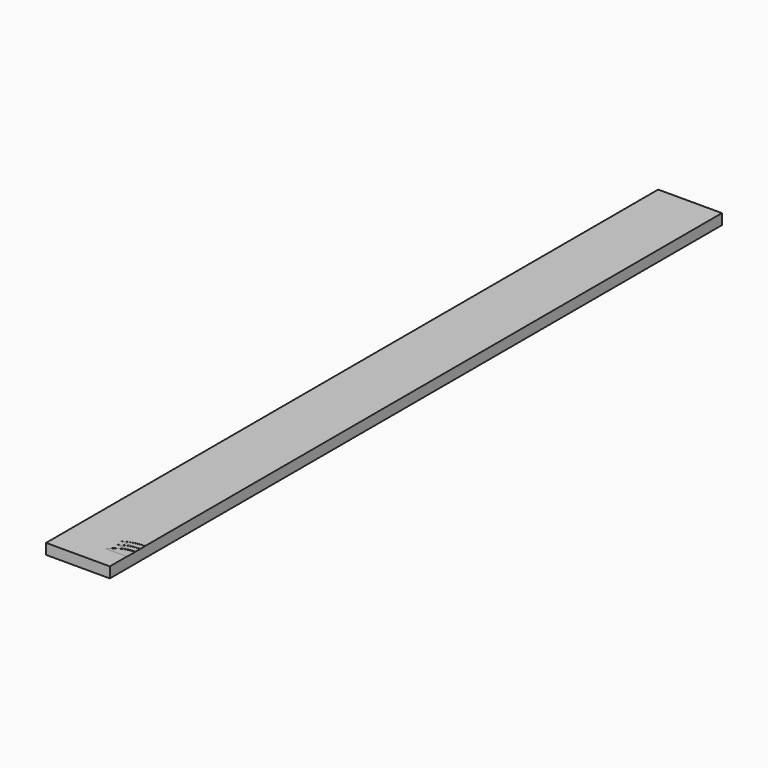
from build123d import *

# Parameters (mm, degrees)
F0_W     = 304.8
F0_H     = 3657.6
F1_DEPTH = 50.8


with BuildPart() as f1:
    # F0 (on Top) → F1 (new body)
    with BuildSketch(Plane.XY):
        Rectangle(F0_W, F0_H)
    extrude(amount=-F1_DEPTH)

    # F5: sweep along a path in F4
    with BuildLine(Plane(origin=(0, -1.688102, -53.966469), x_dir=(1, 0, 0), z_dir=(0, 0.031265, 0.999511))) as f5_path:
        ThreePointArc((152.4, -1675.307587), (85.685016, -1694.242278), (38.86338, -1745.400329))
    # F2 (on face) → F5 (sweep, cut)
    with BuildSketch(Plane.YZ.offset(152.4)):
        Polygon((-1676.127009, 0), (-1726.927009, 0), (-1676.176667, -1.5875), align=None)
        Polygon((-1646.973435, 0), (-1674.819112, 0), (-1647.003889, -0.920376), align=None)
        Polygon((-1617.18196, 0), (-1645.027637, 0), (-1617.212415, -0.920376), align=None)
    sweep(path=f5_path.line, mode=Mode.SUBTRACT)


solid = f1.part
